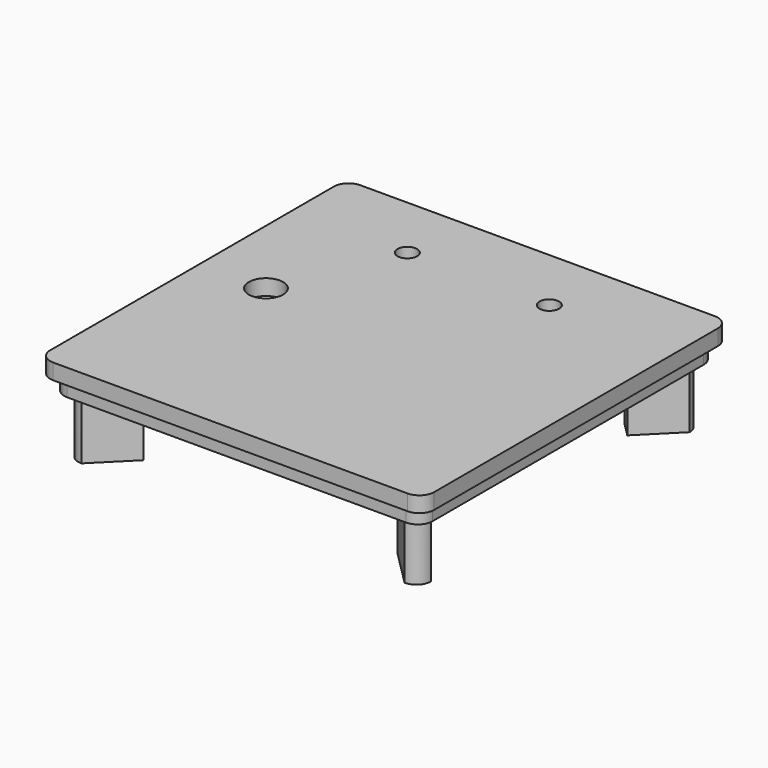
from build123d import *

# Parameters (mm, degrees)
PAD003_DEPTH    = 1.6
PAD004_DEPTH    = 1.6
POCKET002_DEPTH = 1.6
PAD005_DEPTH    = 1.6
SKETCH015_R     = 1
SKETCH015_R_2   = 1.75
POCKET004_DEPTH = 1.6
PAD019_DEPTH    = 6


with BuildPart() as part:
    # Sketch005 → Pad003 (new body)
    with BuildSketch(Plane.XY):
        with BuildLine():
            Line((-19.6, 18.1), (-19.6, -18.1))
            ThreePointArc((-19.6, -18.1), (-19.16066, -19.16066), (-18.1, -19.6))
            Line((-18.1, -19.6), (18.1, -19.6))
            ThreePointArc((18.1, -19.6), (19.16066, -19.16066), (19.6, -18.1))
            Line((19.6, -18.1), (19.6, 18.1))
            ThreePointArc((19.6, 18.1), (19.16066, 19.16066), (18.1, 19.6))
            Line((18.1, 19.6), (-18.1, 19.6))
            ThreePointArc((-18.1, 19.6), (-19.16066, 19.16066), (-19.6, 18.1))
        make_face()
    extrude(amount=PAD003_DEPTH)

    # Sketch006 (on Face9 of Pad003) → Pad004 (join)
    with BuildSketch(Plane(origin=(0, 0, 0), x_dir=(1, 0, 0), z_dir=(0, 0, -1))):
        with BuildLine():
            Line((-18.8, 17.3), (-18.8, -17.3))
            ThreePointArc((-18.8, -17.3), (-18.36066, -18.36066), (-17.3, -18.8))
            Line((-17.3, -18.8), (17.3, -18.8))
            ThreePointArc((17.3, -18.8), (18.36066, -18.36066), (18.8, -17.3))
            Line((18.8, -17.3), (18.8, 17.3))
            ThreePointArc((18.8, 17.3), (18.36066, 18.36066), (17.3, 18.8))
            Line((17.3, 18.8), (-17.3, 18.8))
            ThreePointArc((-17.3, 18.8), (-18.36066, 18.36066), (-18.8, 17.3))
        make_face()
    extrude(amount=PAD004_DEPTH)

    # Sketch007 (on Face19 of Pad004) → Pocket002 (cut)
    with BuildSketch(Plane(origin=(0, 0, -1.6), x_dir=(1, 0, 0), z_dir=(0, 0, -1))):
        with BuildLine():
            Line((-18, -16.5), (-18, 16.5))
            ThreePointArc((-16.5, 18), (-17.56066, 17.56066), (-18, 16.5))
            Line((-16.5, 18), (16.5, 18))
            ThreePointArc((18, 16.5), (17.56066, 17.56066), (16.5, 18))
            Line((18, 16.5), (18, -16.5))
            ThreePointArc((16.5, -18), (17.56066, -17.56066), (18, -16.5))
            Line((16.5, -18), (-16.5, -18))
            ThreePointArc((-18, -16.5), (-17.56066, -17.56066), (-16.5, -18))
        make_face()
    extrude(amount=-POCKET002_DEPTH, mode=Mode.SUBTRACT)

    # Sketch008 (on Face28 of Pocket002) → Pad005 (join)
    with BuildSketch(Plane(origin=(0, 0, 0), x_dir=(1, 0, 0), z_dir=(0, 0, -1))):
        with BuildLine():
            ThreePointArc((-18, -16.499999), (-17.560661, -17.56066), (-16.5, -18))
            Line((18, 16.5), (-16.5, -18))
            ThreePointArc((18, 16.5), (17.56066, 17.56066), (16.5, 18))
            Line((-18, -16.499999), (16.5, 18))
        make_face()
        with BuildLine():
            ThreePointArc((-16.5, 18), (-17.56066, 17.56066), (-18, 16.5))
            Line((-18, 16.5), (16.5, -18))
            ThreePointArc((16.5, -18), (17.56066, -17.56066), (18, -16.5))
            Line((-16.5, 18), (18, -16.5))
        make_face()
    extrude(amount=PAD005_DEPTH)

    # Sketch015 (on Face5 of Pad005) → Pocket004 (cut)
    with BuildSketch(Plane.XY.offset(1.6)):
        with Locations((-7.9, 12.85)):
            Circle(SKETCH015_R)
        with Locations((6.6, 12.85)):
            Circle(SKETCH015_R)
        with Locations((-12.85, 1)):
            Circle(SKETCH015_R_2)
    extrude(amount=-POCKET004_DEPTH, mode=Mode.SUBTRACT)

    # Sketch030 (on Face37 of Pocket004) → Pad019 (join)
    with BuildSketch(Plane(origin=(0, 0, -1.6), x_dir=(1, 0, 0), z_dir=(0, 0, -1))):
        with BuildLine():
            ThreePointArc((-16.5, 18), (-17.56066, 17.56066), (-18, 16.5))
            Line((-18, 16.5), (-14.464466, 12.964466))
            Line((-14.464466, 12.964466), (-12.964466, 14.464466))
            Line((-16.5, 18), (-12.964466, 14.464466))
        make_face()
        with BuildLine():
            ThreePointArc((18, 16.5), (17.56066, 17.56066), (16.5, 18))
            Line((16.5, 18), (12.964466, 14.464466))
            Line((12.964466, 14.464466), (14.464466, 12.964466))
            Line((18, 16.5), (14.464466, 12.964466))
        make_face()
        with BuildLine():
            ThreePointArc((16.5, -18), (17.56066, -17.56066), (18, -16.5))
            Line((18, -16.5), (14.464466, -12.964466))
            Line((14.464466, -12.964466), (12.964466, -14.464466))
            Line((16.5, -18), (12.964466, -14.464466))
        make_face()
        with BuildLine():
            ThreePointArc((-18, -16.499999), (-17.56066, -17.56066), (-16.5, -18))
            Line((-16.5, -18), (-12.964466, -14.464466))
            Line((-14.464466, -12.964465), (-12.964466, -14.464466))
            Line((-18, -16.499999), (-14.464466, -12.964465))
        make_face()
    extrude(amount=PAD019_DEPTH)


with BuildPart() as part_1:
    # Body001 placement: moved
    add(part.part.moved(Location((0, 0, 13.2))))


solid = part_1.part
